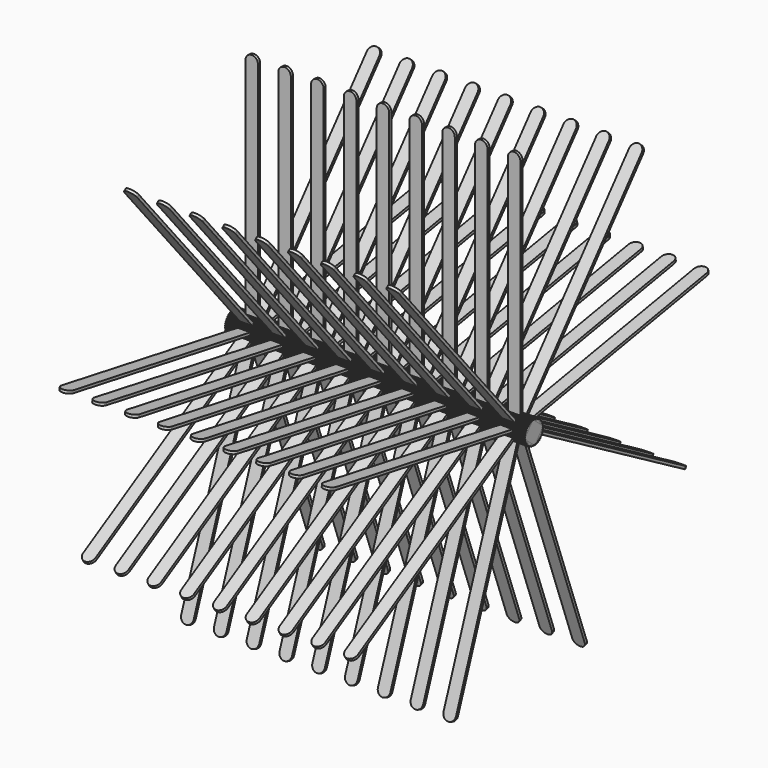
from build123d import *

# Parameters (mm, degrees)
F0_W          = 6.35
F0_H          = 6.35
F1_DEPTH      = 114.3
F3_DEPTH      = 0.508
F3_DEPTH_BACK = 0.508
F5_COUNT      = 9


with BuildPart() as f1:
    # F0 (on Right) → F1 (new body)
    with BuildSketch(Plane.YZ):
        Rectangle(F0_W, F0_H)
    extrude(amount=F1_DEPTH)

    # F2 (on Front) → F3 (join, two sides)
    with BuildSketch(Plane.XZ) as f3_sk:
        with BuildLine():
            Line((4.7625, 89.69375), (4.7625, 3.175))
            Line((4.7625, 3.175), (9.525, 3.175))
            Line((9.525, 3.175), (9.525, 89.69375))
            ThreePointArc((9.525, 89.69375), (7.14375, 92.075), (4.7625, 89.69375))
        make_face()
        with BuildLine():
            Line((17.2640625, 89.69375), (17.2640625, 3.175))
            Line((17.2640625, 3.175), (22.0265625, 3.175))
            Line((22.0265625, 3.175), (22.0265625, 89.69375))
            ThreePointArc((22.0265625, 89.69375), (19.6453125, 92.075), (17.2640625, 89.69375))
        make_face()
        with BuildLine():
            Line((29.765625, 89.69375), (29.765625, 3.175))
            Line((29.765625, 3.175), (34.528125, 3.175))
            Line((34.528125, 3.175), (34.528125, 89.69375))
            ThreePointArc((34.528125, 89.69375), (32.146875, 92.075), (29.765625, 89.69375))
        make_face()
        with BuildLine():
            Line((42.2671875, 89.69375), (42.2671875, 3.175))
            Line((42.2671875, 3.175), (47.0296875, 3.175))
            Line((47.0296875, 3.175), (47.0296875, 89.69375))
            ThreePointArc((47.0296875, 89.69375), (44.6484375, 92.075), (42.2671875, 89.69375))
        make_face()
        with BuildLine():
            Line((54.76875, 89.69375), (54.76875, 3.175))
            Line((54.76875, 3.175), (59.53125, 3.175))
            Line((59.53125, 3.175), (59.53125, 89.69375))
            ThreePointArc((59.53125, 89.69375), (57.15, 92.075), (54.76875, 89.69375))
        make_face()
        with BuildLine():
            Line((67.2703125, 89.69375), (67.2703125, 3.175))
            Line((67.2703125, 3.175), (72.0328125, 3.175))
            Line((72.0328125, 3.175), (72.0328125, 89.69375))
            ThreePointArc((72.0328125, 89.69375), (69.6515625, 92.075), (67.2703125, 89.69375))
        make_face()
        with BuildLine():
            Line((79.771875, 89.69375), (79.771875, 3.175))
            Line((79.771875, 3.175), (84.534375, 3.175))
            Line((84.534375, 3.175), (84.534375, 89.69375))
            ThreePointArc((84.534375, 89.69375), (82.153125, 92.075), (79.771875, 89.69375))
        make_face()
        with BuildLine():
            Line((92.2734375, 89.69375), (92.2734375, 3.175))
            Line((92.2734375, 3.175), (97.0359375, 3.175))
            Line((97.0359375, 3.175), (97.0359375, 89.69375))
            ThreePointArc((97.0359375, 89.69375), (94.6546875, 92.075), (92.2734375, 89.69375))
        make_face()
        with BuildLine():
            Line((104.775, 89.69375), (104.775, 3.175))
            Line((104.775, 3.175), (109.5375, 3.175))
            Line((109.5375, 3.175), (109.5375, 89.69375))
            ThreePointArc((109.5375, 89.69375), (107.15625, 92.075), (104.775, 89.69375))
        make_face()
    extrude(amount=F3_DEPTH)
    extrude(f3_sk.sketch, amount=-F3_DEPTH_BACK)


with BuildPart() as f5_1:
    # F5: instance of F1
    add(f1.part.rotate(Axis((57.15, 0, 0), (1, 0, 0)), 1 * 360 / F5_COUNT))


with BuildPart() as f5_2:
    # F5: instance of F1
    add(f1.part.rotate(Axis((57.15, 0, 0), (1, 0, 0)), 2 * 360 / F5_COUNT))


with BuildPart() as f5_3:
    # F5: instance of F1
    add(f1.part.rotate(Axis((57.15, 0, 0), (1, 0, 0)), 3 * 360 / F5_COUNT))


with BuildPart() as f5_4:
    # F5: instance of F1
    add(f1.part.rotate(Axis((57.15, 0, 0), (1, 0, 0)), 4 * 360 / F5_COUNT))


with BuildPart() as f5_5:
    # F5: instance of F1
    add(f1.part.rotate(Axis((57.15, 0, 0), (1, 0, 0)), 5 * 360 / F5_COUNT))


with BuildPart() as f5_6:
    # F5: instance of F1
    add(f1.part.rotate(Axis((57.15, 0, 0), (1, 0, 0)), 6 * 360 / F5_COUNT))


with BuildPart() as f5_7:
    # F5: instance of F1
    add(f1.part.rotate(Axis((57.15, 0, 0), (1, 0, 0)), 7 * 360 / F5_COUNT))


with BuildPart() as f5_8:
    # F5: instance of F1
    add(f1.part.rotate(Axis((57.15, 0, 0), (1, 0, 0)), 8 * 360 / F5_COUNT))


solid = Compound([f1.part, f5_1.part, f5_2.part, f5_3.part, f5_4.part, f5_5.part, f5_6.part, f5_7.part, f5_8.part])
